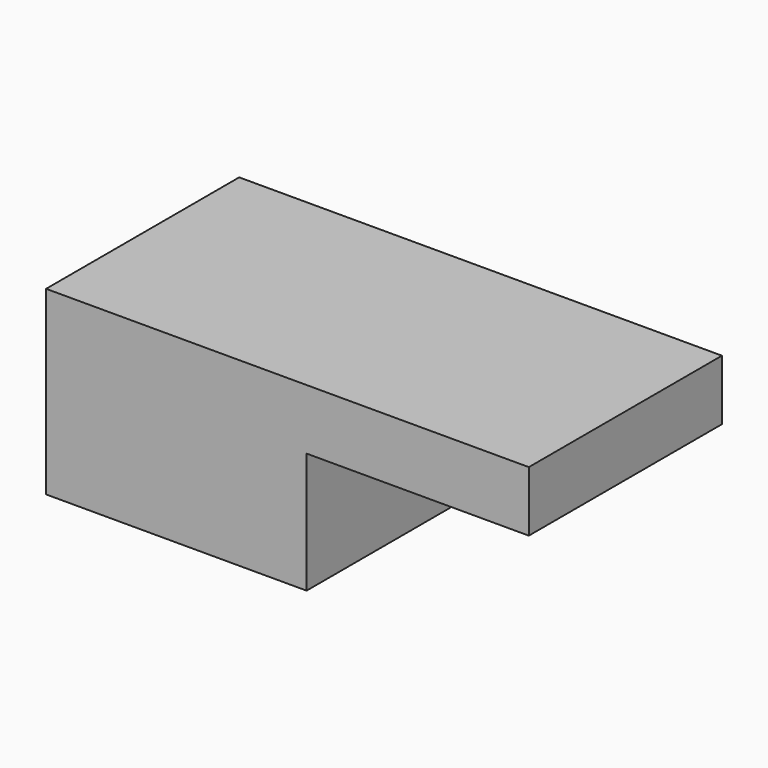
from build123d import *

# Parameters (mm, degrees)
F0_W     = 21.585796
F0_H     = 20
F1_DEPTH = 10
F2_W     = 18.414204
F2_H     = 20
F2_W_2   = 21.585796
F3_DEPTH = 5


with BuildPart() as f1:
    # F0 (on Top) → F1 (new body)
    with BuildSketch(Plane.XY):
        Rectangle(F0_W, F0_H)
    extrude(amount=F1_DEPTH)

    # F2 (on face) → F3 (join)
    with BuildSketch(Plane.XY.offset(10)):
        with Locations((20, 0)):
            Rectangle(F2_W, F2_H)
        Rectangle(F2_W_2, F2_H)
    extrude(amount=F3_DEPTH)


solid = f1.part
